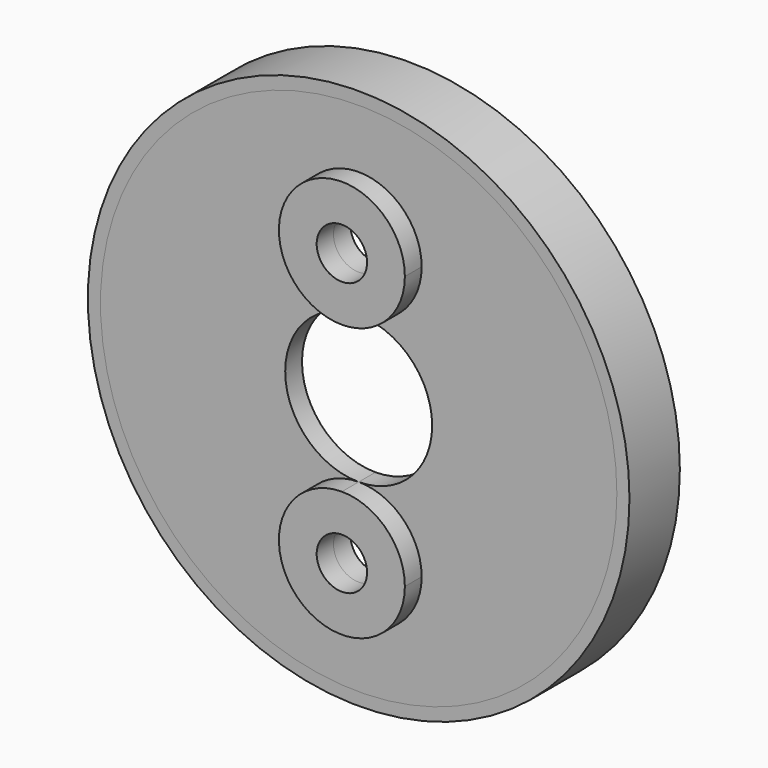
from build123d import *

# Parameters (mm, degrees)
F0_R     = 61.5
F0_R_2   = 6
F1_DEPTH = 5
F0_R_3   = 64.5
F2_DEPTH = 15
F3_DEPTH = 5


with BuildPart() as f1:
    # F0 (on Front) → F1 (new body)
    with BuildSketch(Plane.XZ):
        Circle(F0_R)
        with BuildLine():
            ThreePointArc((15, -32.5), (-10.606602, -43.106602), (0, -17.5))
            ThreePointArc((0, -17.5), (10.606602, -21.893398), (15, -32.5))
        make_face(mode=Mode.SUBTRACT)
        with BuildLine():
            ThreePointArc((0, 17.5), (12.374369, 12.374369), (17.5, 0))
            ThreePointArc((17.5, 0), (12.374369, -12.374369), (0, -17.5))
            ThreePointArc((0, -17.5), (-17.5, 0), (0, 17.5))
        make_face(mode=Mode.SUBTRACT)
        with BuildLine():
            ThreePointArc((15, 32.5), (10.606602, 21.893398), (0, 17.5))
            ThreePointArc((0, 17.5), (-10.606602, 43.106602), (15, 32.5))
        make_face(mode=Mode.SUBTRACT)
        with BuildLine():
            ThreePointArc((15, 32.5), (-10.606602, 43.106602), (0, 17.5))
            ThreePointArc((0, 17.5), (10.606602, 21.893398), (15, 32.5))
        make_face()
        with Locations((0, 32.5)):
            Circle(F0_R_2, mode=Mode.SUBTRACT)
        with BuildLine():
            ThreePointArc((15, -32.5), (10.606602, -21.893398), (0, -17.5))
            ThreePointArc((0, -17.5), (-10.606602, -43.106602), (15, -32.5))
        make_face()
        with Locations((0, -32.5)):
            Circle(F0_R_2, mode=Mode.SUBTRACT)
    extrude(amount=-F1_DEPTH)


with BuildPart() as f2:
    # F0 (on Front) → F2 (new body)
    with BuildSketch(Plane.XZ):
        Circle(F0_R_3)
        Circle(F0_R, mode=Mode.SUBTRACT)
    extrude(amount=-F2_DEPTH)


with BuildPart() as f3:
    # F0 (on Front) → F3 (new body)
    with BuildSketch(Plane.XZ):
        with BuildLine():
            ThreePointArc((15, 32.5), (-10.606602, 43.106602), (0, 17.5))
            ThreePointArc((0, 17.5), (10.606602, 21.893398), (15, 32.5))
        make_face()
        with Locations((0, 32.5)):
            Circle(F0_R_2, mode=Mode.SUBTRACT)
        with BuildLine():
            ThreePointArc((15, -32.5), (10.606602, -21.893398), (0, -17.5))
            ThreePointArc((0, -17.5), (-10.606602, -43.106602), (15, -32.5))
        make_face()
        with Locations((0, -32.5)):
            Circle(F0_R_2, mode=Mode.SUBTRACT)
    extrude(amount=F3_DEPTH)


solid = Compound([f1.part, f2.part, f3.part])
